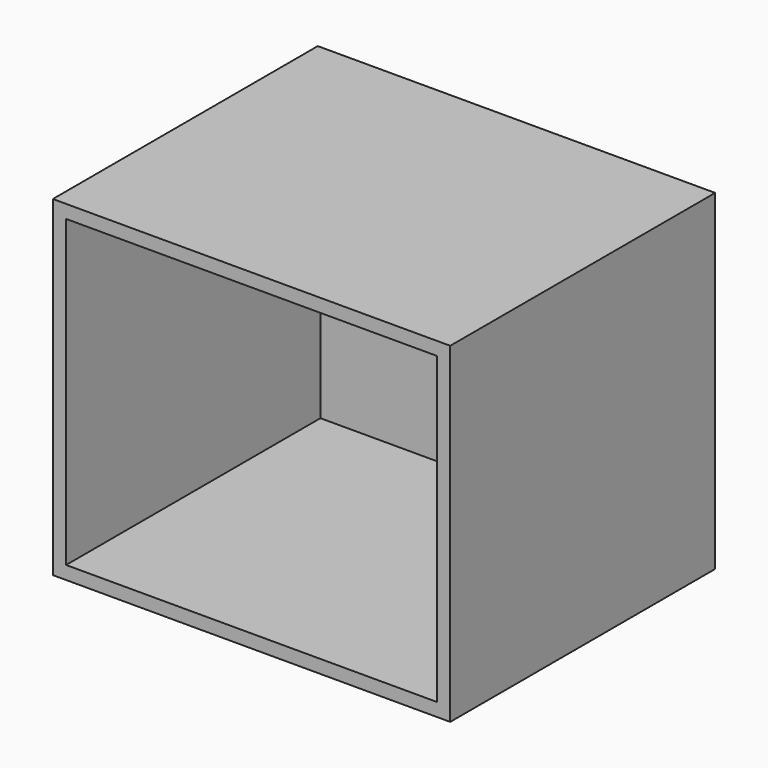
from build123d import *

# Parameters (mm, degrees)
F0_W     = 12.7
F0_H     = 63.5
F1_DEPTH = 63.5
F2_W     = 63.5
F2_H     = 63.5
F3_DEPTH = 63.5
F4_T     = -2.54


with BuildPart() as f1:
    # F0 (on Front) → F1 (new body)
    with BuildSketch(Plane.XZ):
        with Locations((6.35, -31.75)):
            Rectangle(F0_W, F0_H)
    extrude(amount=F1_DEPTH)

    # F2 (on face) → F3 (join)
    with BuildSketch(Plane.YZ.offset(12.7)):
        with Locations((-31.75, -31.75)):
            Rectangle(F2_W, F2_H)
    extrude(amount=F3_DEPTH)

    # F4
    f4_openings = [f1.faces().sort_by_distance(p)[0] for p in [
        (38.1, -63.5, -31.75),
    ]]
    offset(amount=F4_T, openings=f4_openings)


solid = f1.part
